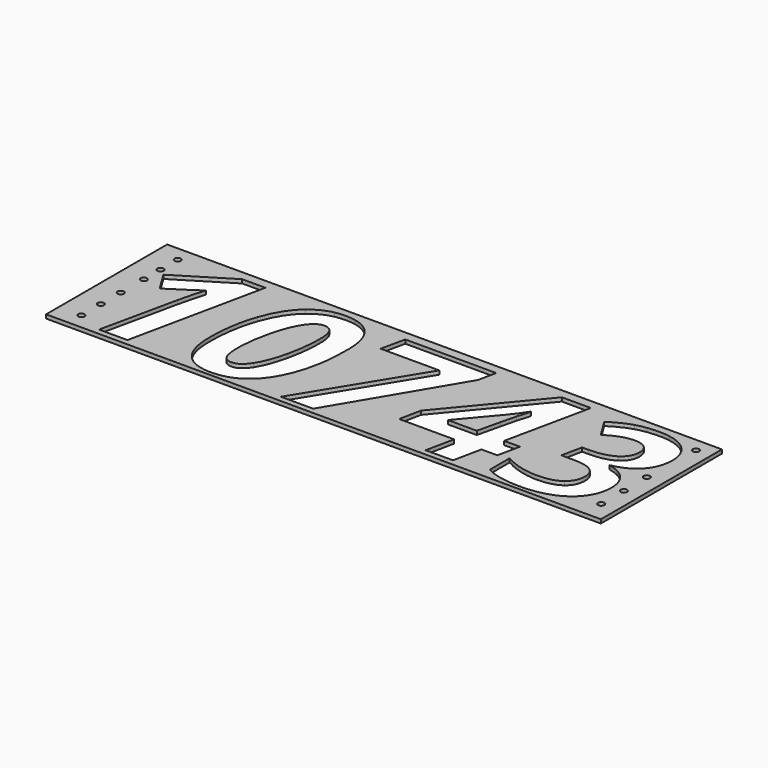
from build123d import *

# Parameters (mm, degrees)
F0_R     = 2.1209
F1_DEPTH = 2.54


with BuildPart() as f1:
    # F0 (on Top) → F1 (new body)
    with BuildSketch(Plane.XY):
        with BuildLine():
            Line((137.9352703796, 39.7284227727), (-57.9057151731, 39.7284227727))
            add(Edge.make_bspline(
                [(-57.9057151731, 39.7284227727), (-39.8333740893, 35.9654687038), (-39.8333740893, 10.7823701908)],
                knots=[0.1494237918, 0.1494237918, 0.1494237918, 1, 1, 1], degree=2))
            add(Edge.make_bspline(
                [(-39.8333740893, 10.7823701908), (-39.8333740893, -18.6444472782), (-50.3801538017, -36.2424453358)],
                knots=[0, 0, 0, 1, 1, 1], degree=2))
            add(Edge.make_bspline(
                [(-50.3801538017, -36.2424453358), (-58.1025786207, -49.127820841), (-70.373234733, -52.5784355645)],
                knots=[0, 0, 0, 0.7322068944, 0.7322068944, 0.7322068944], degree=2))
            Line((-70.373234733, -52.5784355645), (-33.8238129996, -52.5784355645))
            Line((-33.8238129996, -52.5784355645), (12.3095842987, 22.6612692781))
            Line((12.3095842987, 22.6612692781), (-27.0730727089, 22.6612692781))
            Line((-27.0730727089, 22.6612692781), (-23.5674954066, 38.9471798311))
            Line((-23.5674954066, 38.9471798311), (37.469613394, 38.9471798311))
            Line((37.469613394, 38.9471798311), (34.9055339958, 26.8078664299))
            Line((34.9055339958, 26.8078664299), (-12.1693612066, -52.5784355645))
            Line((-12.1693612066, -52.5784355645), (63.3307579499, -52.5784355645))
            Line((63.3307579499, -52.5784355645), (67.2770363988, -33.6082543915))
            Line((67.2770363988, -33.6082543915), (30.3382675676, -33.6082543915))
            Line((30.3382675676, -33.6082543915), (33.3430481125, -18.964957203))
            Line((33.3430481125, -18.964957203), (81.5397280516, 38.9471798311))
            Line((81.5397280516, 38.9471798311), (101.0107059821, 38.9471798311))
            Line((101.0107059821, 38.9471798311), (88.81129697, -18.5843516673))
            Line((88.81129697, -18.5843516673), (99.4482200987, -18.5843516673))
            Line((99.4482200987, -18.5843516673), (96.2631527212, -33.6082543915))
            Line((96.2631527212, -33.6082543915), (85.6061977222, -33.6082543915))
            Line((85.6061977222, -33.6082543915), (81.6599192734, -52.5784355645))
            Line((81.6599192734, -52.5784355645), (113.9546887819, -52.5784355645))
            add(Edge.make_bspline(
                [(113.9546887819, -52.5784355645), (107.9752595919, -51.3415930268), (103.3944985476, -48.8925714295)],
                knots=[0.5050353738, 0.5050353738, 0.5050353738, 1, 1, 1], degree=2))
            Line((103.3944985476, -48.8925714295), (103.3944985476, -32.1659597299))
            add(Edge.make_bspline(
                [(103.3944985476, -32.1659597299), (108.6428485659, -35.2909314966), (114.7826168125, -36.8934811205)],
                knots=[0, 0, 0, 1, 1, 1], degree=2))
            add(Edge.make_bspline(
                [(114.7826168125, -36.8934811205), (120.9223850591, -38.4960307444), (126.7316274458, -38.4960307444)],
                knots=[0, 0, 0, 1, 1, 1], degree=2))
            add(Edge.make_bspline(
                [(126.7316274458, -38.4960307444), (136.6273713735, -38.4960307444), (141.9458329378, -34.5197044901)],
                knots=[0, 0, 0, 1, 1, 1], degree=2))
            add(Edge.make_bspline(
                [(141.9458329378, -34.5197044901), (147.2642945022, -30.5433782357), (147.2642945022, -23.4721280202)],
                knots=[0, 0, 0, 1, 1, 1], degree=2))
            add(Edge.make_bspline(
                [(147.2642945022, -23.4721280202), (147.2642945022, -12.6949817994), (131.1186070413, -12.6949817994)],
                knots=[0, 0, 0, 1, 1, 1], degree=2))
            Line((131.1186070413, -12.6949817994), (122.4848709425, -12.6949817994))
            Line((122.4848709425, -12.6949817994), (125.3694602655, 1.1270087068))
            Line((125.3694602655, 1.1270087068), (129.9367266936, 1.1270087068))
            add(Edge.make_bspline(
                [(129.9367266936, 1.1270087068), (140.3933629896, 1.1270087068), (146.4029240793, 5.0131915448)],
                knots=[0, 0, 0, 1, 1, 1], degree=2))
            add(Edge.make_bspline(
                [(146.4029240793, 5.0131915448), (152.412485169, 8.8993743827), (152.412485169, 15.7903377656)],
                knots=[0, 0, 0, 1, 1, 1], degree=2))
            add(Edge.make_bspline(
                [(152.412485169, 15.7903377656), (152.412485169, 19.976998658), (149.7181986138, 22.2906796775)],
                knots=[0, 0, 0, 1, 1, 1], degree=2))
            add(Edge.make_bspline(
                [(149.7181986138, 22.2906796775), (147.0239120586, 24.6043606971), (142.1361357056, 24.6043606971)],
                knots=[0, 0, 0, 1, 1, 1], degree=2))
            add(Edge.make_bspline(
                [(142.1361357056, 24.6043606971), (133.7427820504, 24.6043606971), (124.1675480476, 18.3544171638)],
                knots=[0, 0, 0, 1, 1, 1], degree=2))
            Line((124.1675480476, 18.3544171638), (116.2148955389, 31.1147185442))
            add(Edge.make_bspline(
                [(116.2148955389, 31.1147185442), (123.9872612149, 36.1827817298), (130.7780652462, 38.2160165651)],
                knots=[0, 0, 0, 1, 1, 1], degree=2))
            add(Edge.make_bspline(
                [(130.7780652462, 38.2160165651), (134.1319063264, 39.2201902219), (137.9352703796, 39.7284227727)],
                knots=[0, 0, 0, 0.4938798211, 0.4938798211, 0.4938798211], degree=2))
        make_face()
        with BuildLine():
            Line((-179.1707926208, -52.5784355645), (-179.1707926208, 39.7284227727))
            Line((-179.1707926208, 39.7284227727), (-71.5754775282, 39.7284227727))
            add(Edge.make_bspline(
                [(-71.5754775282, 39.7284227727), (-68.318079533, 40.3894744926), (-64.813116352, 40.3894744926)],
                knots=[0.7039435824, 0.7039435824, 0.7039435824, 1, 1, 1], degree=2))
            add(Edge.make_bspline(
                [(-64.813116352, 40.3894744926), (-61.0805485451, 40.3894744926), (-57.9057151731, 39.7284227727)],
                knots=[0, 0, 0, 0.1494237918, 0.1494237918, 0.1494237918], degree=2))
            Line((-57.9057151731, 39.7284227727), (137.9352703796, 39.7284227727))
            add(Edge.make_bspline(
                [(137.9352703796, 39.7284227727), (141.8328973176, 40.2492514005), (146.2026053763, 40.2492514005)],
                knots=[0.4938798211, 0.4938798211, 0.4938798211, 1, 1, 1], degree=2))
            add(Edge.make_bspline(
                [(146.2026053763, 40.2492514005), (149.8124240937, 40.2492514005), (152.9493488535, 39.7284227727)],
                knots=[0, 0, 0, 0.3033733644, 0.3033733644, 0.3033733644], degree=2))
            Line((152.9493488535, 39.7284227727), (184.0122695841, 39.7284227727))
            Line((184.0122695841, 39.7284227727), (184.0122695841, 45.1867051931))
            Line((184.0122695841, 45.1867051931), (-188.4351816613, 45.1867051931))
            Line((-188.4351816613, 45.1867051931), (-188.4351816613, -56.4132948069))
            Line((-188.4351816613, -56.4132948069), (184.0122695841, -56.4132948069))
            Line((184.0122695841, -56.4132948069), (184.0122695841, -52.5784355645))
            Line((184.0122695841, -52.5784355645), (140.4022404964, -52.5784355645))
            add(Edge.make_bspline(
                [(140.4022404964, -52.5784355645), (134.5593325292, -53.8404433933), (127.613029739, -53.8404433933)],
                knots=[0.413261306, 0.413261306, 0.413261306, 1, 1, 1], degree=2))
            add(Edge.make_bspline(
                [(127.613029739, -53.8404433933), (120.0557778207, -53.8404433933), (113.9546887819, -52.5784355645)],
                knots=[0, 0, 0, 0.5050353738, 0.5050353738, 0.5050353738], degree=2))
            Line((113.9546887819, -52.5784355645), (81.6599192734, -52.5784355645))
            Line((81.6599192734, -52.5784355645), (63.3307579499, -52.5784355645))
            Line((63.3307579499, -52.5784355645), (-12.1693612066, -52.5784355645))
            Line((-12.1693612066, -52.5784355645), (-33.8238129996, -52.5784355645))
            Line((-33.8238129996, -52.5784355645), (-70.373234733, -52.5784355645))
            add(Edge.make_bspline(
                [(-70.373234733, -52.5784355645), (-74.8610333774, -53.8404433933), (-79.9572102979, -53.8404433933)],
                knots=[0.7322068944, 0.7322068944, 0.7322068944, 1, 1, 1], degree=2))
            add(Edge.make_bspline(
                [(-79.9572102979, -53.8404433933), (-84.9961034825, -53.8404433933), (-89.0475541064, -52.5784355645)],
                knots=[0, 0, 0, 0.4063712769, 0.4063712769, 0.4063712769], degree=2))
            Line((-89.0475541064, -52.5784355645), (-136.867753817, -52.5784355645))
            Line((-136.867753817, -52.5784355645), (-155.9581262119, -52.5784355645))
            Line((-155.9581262119, -52.5784355645), (-179.1707926208, -52.5784355645))
        make_face()
        with BuildLine():
            Line((-71.5754775282, 39.7284227727), (-179.1707926208, 39.7284227727))
            Line((-179.1707926208, 39.7284227727), (-179.1707926208, -52.5784355645))
            Line((-179.1707926208, -52.5784355645), (-155.9581262119, -52.5784355645))
            Line((-155.9581262119, -52.5784355645), (-144.7002151039, -0.6758596201))
            add(Edge.make_bspline(
                [(-144.7002151039, -0.6758596201), (-142.496709371, 8.8392787718), (-139.9326299728, 17.292728038)],
                knots=[0, 0, 0, 1, 1, 1], degree=2))
            add(Edge.make_bspline(
                [(-139.9326299728, 17.292728038), (-140.4935223411, 16.7919312805), (-143.7787490702, 14.348043104)],
                knots=[0, 0, 0, 1, 1, 1], degree=2))
            add(Edge.make_bspline(
                [(-143.7787490702, 14.348043104), (-147.0639757992, 11.9041549276), (-160.2249145855, 3.691088105)],
                knots=[0, 0, 0, 1, 1, 1], degree=2))
            Line((-160.2249145855, 3.691088105), (-168.5381407596, 17.1525049459))
            Line((-168.5381407596, 17.1525049459), (-133.1017622009, 38.9471798311))
            Line((-133.1017622009, 38.9471798311), (-117.5169671083, 38.9471798311))
            Line((-117.5169671083, 38.9471798311), (-136.867753817, -52.5784355645))
            Line((-136.867753817, -52.5784355645), (-89.0475541064, -52.5784355645))
            add(Edge.make_bspline(
                [(-89.0475541064, -52.5784355645), (-94.9659287491, -50.7348896778), (-98.7771524437, -46.1982848743)],
                knots=[0.4063712769, 0.4063712769, 0.4063712769, 1, 1, 1], degree=2))
            add(Edge.make_bspline(
                [(-98.7771524437, -46.1982848743), (-105.1973668745, -38.5561263553), (-105.1973668745, -23.3519367984)],
                knots=[0, 0, 0, 1, 1, 1], degree=2))
            add(Edge.make_bspline(
                [(-105.1973668745, -23.3519367984), (-105.1973668745, -4.7423292908), (-99.9390009211, 10.2815734334)],
                knots=[0, 0, 0, 1, 1, 1], degree=2))
            add(Edge.make_bspline(
                [(-99.9390009211, 10.2815734334), (-94.6806349676, 25.3054761575), (-85.6662933331, 32.847475325)],
                knots=[0, 0, 0, 1, 1, 1], degree=2))
            add(Edge.make_bspline(
                [(-85.6662933331, 32.847475325), (-79.3207053898, 38.1566172376), (-71.5754775282, 39.7284227727)],
                knots=[0, 0, 0, 0.7039435824, 0.7039435824, 0.7039435824], degree=2))
        make_face()
        with Locations((-173.2691087497, -45.7456477251)):
            Circle(F0_R, mode=Mode.SUBTRACT)
        with Locations((-173.2691087497, -29.4228874566)):
            Circle(F0_R, mode=Mode.SUBTRACT)
        with Locations((-173.2691087497, -12.7205242397)):
            Circle(F0_R, mode=Mode.SUBTRACT)
        with Locations((-173.2691087497, 6.6390317208)):
            Circle(F0_R, mode=Mode.SUBTRACT)
        with Locations((-173.2691087497, 20.6841987608)):
            Circle(F0_R, mode=Mode.SUBTRACT)
        with Locations((-173.2691087497, 35.10896832)):
            Circle(F0_R, mode=Mode.SUBTRACT)
        with BuildLine():
            Line((184.0122695841, 39.7284227727), (152.9493488535, 39.7284227727))
            add(Edge.make_bspline(
                [(152.9493488535, 39.7284227727), (160.152569696, 38.5324605122), (164.8622925597, 34.590248041)],
                knots=[0.3033733644, 0.3033733644, 0.3033733644, 1, 1, 1], degree=2))
            add(Edge.make_bspline(
                [(164.8622925597, 34.590248041), (171.6230487856, 28.9312446816), (171.6230487856, 19.3560106788)],
                knots=[0, 0, 0, 1, 1, 1], degree=2))
            add(Edge.make_bspline(
                [(171.6230487856, 19.3560106788), (171.6230487856, 9.5804579729), (165.7036311123, 2.949908904)],
                knots=[0, 0, 0, 1, 1, 1], degree=2))
            add(Edge.make_bspline(
                [(165.7036311123, 2.949908904), (159.7842134389, -3.6806401649), (149.3476090132, -5.5035403621)],
                knots=[0, 0, 0, 1, 1, 1], degree=2))
            Line((149.3476090132, -5.5035403621), (149.3476090132, -5.7439228057))
            add(Edge.make_bspline(
                [(149.3476090132, -5.7439228057), (157.5406439655, -7.3865361702), (161.7673685985, -12.4245515504)],
                knots=[0, 0, 0, 1, 1, 1], degree=2))
            add(Edge.make_bspline(
                [(161.7673685985, -12.4245515504), (165.9940932316, -17.4625669306), (165.9940932316, -25.0346139035)],
                knots=[0, 0, 0, 1, 1, 1], degree=2))
            add(Edge.make_bspline(
                [(165.9940932316, -25.0346139035), (165.9940932316, -33.3678719479), (161.3567152574, -39.9383254059)],
                knots=[0, 0, 0, 1, 1, 1], degree=2))
            add(Edge.make_bspline(
                [(161.3567152574, -39.9383254059), (156.7193372832, -46.5087788639), (148.0856011844, -50.1746111286)],
                knots=[0, 0, 0, 1, 1, 1], degree=2))
            add(Edge.make_bspline(
                [(148.0856011844, -50.1746111286), (144.5176121289, -51.6895577578), (140.4022404964, -52.5784355645)],
                knots=[0, 0, 0, 0.413261306, 0.413261306, 0.413261306], degree=2))
            Line((140.4022404964, -52.5784355645), (184.0122695841, -52.5784355645))
            Line((184.0122695841, -52.5784355645), (184.0122695841, 39.7284227727))
        make_face()
        with Locations((173.3048966723, -42.7088550372)):
            Circle(F0_R, mode=Mode.SUBTRACT)
        with Locations((173.3048966723, -23.7288981626)):
            Circle(F0_R, mode=Mode.SUBTRACT)
        with Locations((172.9252920073, -3.9897439744)):
            Circle(F0_R, mode=Mode.SUBTRACT)
        with Locations((174.0640922694, 35.8681639171)):
            Circle(F0_R, mode=Mode.SUBTRACT)
    extrude(amount=F1_DEPTH)


with BuildPart() as f1b:
    # F0 (on Top) → F1, piece 2 (new body)
    with BuildSketch(Plane.XY):
        with BuildLine():
            add(Edge.make_bspline(
                [(-60.7165988759, 21.5394845413), (-62.6296424894, 24.7245519189), (-66.4957934571, 24.7245519189)],
                knots=[0, 0, 0, 1, 1, 1], degree=2))
            add(Edge.make_bspline(
                [(-66.4957934571, 24.7245519189), (-71.5037610318, 24.7245519189), (-75.8606928218, 18.2141940717)],
                knots=[0, 0, 0, 1, 1, 1], degree=2))
            add(Edge.make_bspline(
                [(-75.8606928218, 18.2141940717), (-80.2176246118, 11.7038362246), (-83.2224051567, -0.6858755553)],
                knots=[0, 0, 0, 1, 1, 1], degree=2))
            add(Edge.make_bspline(
                [(-83.2224051567, -0.6858755553), (-86.2271857015, -13.0755873351), (-86.2271857015, -23.7125104638)],
                knots=[0, 0, 0, 1, 1, 1], degree=2))
            add(Edge.make_bspline(
                [(-86.2271857015, -23.7125104638), (-86.2271857015, -30.9239837714), (-84.5044448558, -34.579800101)],
                knots=[0, 0, 0, 1, 1, 1], degree=2))
            add(Edge.make_bspline(
                [(-84.5044448558, -34.579800101), (-82.7817040101, -38.2356164305), (-78.3947244146, -38.2356164305)],
                knots=[0, 0, 0, 1, 1, 1], degree=2))
            add(Edge.make_bspline(
                [(-78.3947244146, -38.2356164305), (-73.326661229, -38.2356164305), (-68.9797453742, -31.6050673616)],
                knots=[0, 0, 0, 1, 1, 1], degree=2))
            add(Edge.make_bspline(
                [(-68.9797453742, -31.6050673616), (-64.6328295193, -24.9745182926), (-61.7181923908, -12.7650933455)],
                knots=[0, 0, 0, 1, 1, 1], degree=2))
            add(Edge.make_bspline(
                [(-61.7181923908, -12.7650933455), (-58.8035552623, -0.5556683983), (-58.8035552623, 11.4033581701)],
                knots=[0, 0, 0, 1, 1, 1], degree=2))
            add(Edge.make_bspline(
                [(-58.8035552623, 11.4033581701), (-58.8035552623, 18.3544171638), (-60.7165988759, 21.5394845413)],
                knots=[0, 0, 0, 1, 1, 1], degree=2))
        make_face()
    extrude(amount=F1_DEPTH)


with BuildPart() as f1c:
    # F0 (on Top) → F1, piece 3 (new body)
    with BuildSketch(Plane.XY):
        with BuildLine():
            Line((50.9911258458, -18.5843516673), (70.4621037763, -18.5843516673))
            Line((70.4621037763, -18.5843516673), (74.0878723004, -3.0596521857))
            add(Edge.make_bspline(
                [(74.0878723004, -3.0596521857), (74.8490833717, 0.5661163384), (76.6018720229, 7.2066813425)],
                knots=[0, 0, 0, 1, 1, 1], degree=2))
            add(Edge.make_bspline(
                [(76.6018720229, 7.2066813425), (78.354660674, 13.8472463466), (79.2360629672, 16.0307202091)],
                knots=[0, 0, 0, 1, 1, 1], degree=2))
            Line((79.2360629672, 16.0307202091), (78.8554574315, 16.0307202091))
            add(Edge.make_bspline(
                [(78.8554574315, 16.0307202091), (76.6519516986, 12.0844417603), (70.5822949981, 4.69268162)],
                knots=[0, 0, 0, 1, 1, 1], degree=2))
            Line((70.5822949981, 4.69268162), (50.9911258458, -18.5843516673))
        make_face()
    extrude(amount=F1_DEPTH)


solid = Compound([f1.part, f1b.part, f1c.part])
